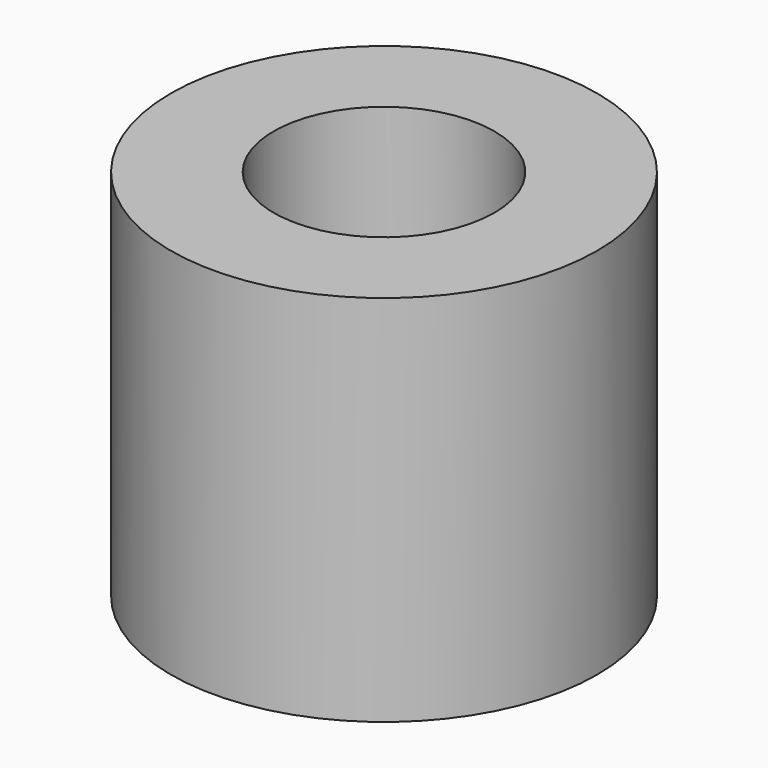
from build123d import *

# Parameters (mm, degrees)
F0_R     = 54.840067
F1_DEPTH = 48.006
F2_R     = 26.964894
F3_DEPTH = 75.946
F4_R     = 28.396235
F5_DEPTH = 97.028


with BuildPart() as f1:
    # F0 (on Top) → F1 (new body, symmetric)
    with BuildSketch(Plane.XY):
        Circle(F0_R)
    extrude(amount=F1_DEPTH, both=True)

    # F2 (on face) → F3 (join)
    with BuildSketch(Plane.XY.offset(48.006)):
        Circle(F2_R)
    extrude(amount=-F3_DEPTH)

    # F4 (on face) → F5 (cut)
    with BuildSketch(Plane.XY.offset(48.006)):
        Circle(F4_R)
        Circle(F4_R)
    extrude(amount=-F5_DEPTH, mode=Mode.SUBTRACT)


solid = f1.part
